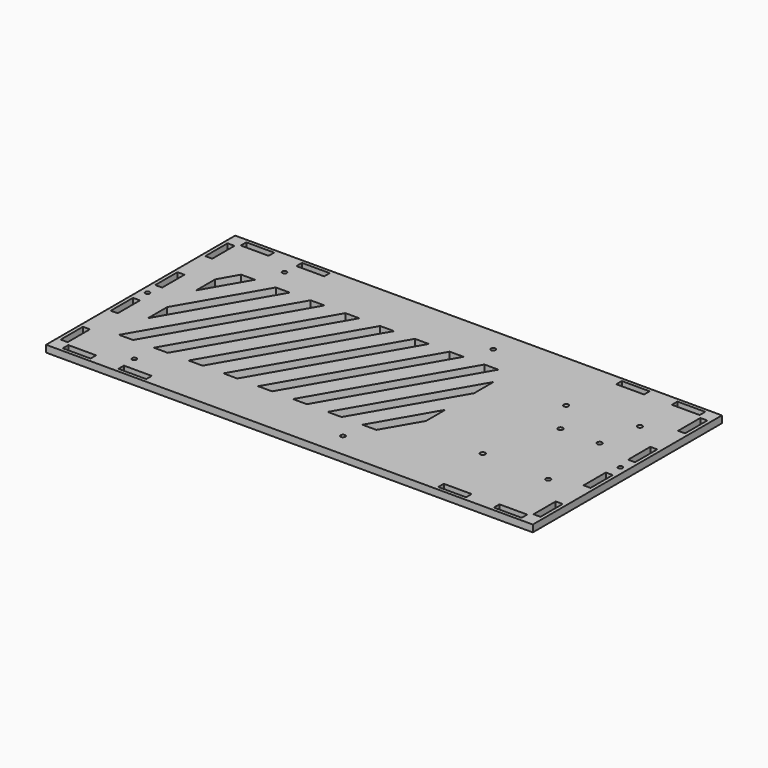
from build123d import *

# Parameters (mm, degrees)
F1_W     = 20
F1_H     = 5
F1_W_2   = 5
F1_H_2   = 20
F1_R     = 1.6
F1_R_2   = 1.75
F2_DEPTH = 5


with BuildPart() as f2:
    # F1 (on Top) → F2 (new body)
    with BuildSketch(Plane.XY):
        Polygon((0, 35), (0, 0), (350, 0), (350, 170), (0, 170), align=None)
        with Locations((20, 5)):
            Rectangle(F1_W, F1_H, mode=Mode.SUBTRACT)
        with Locations((5, 20)):
            Rectangle(F1_W_2, F1_H_2, mode=Mode.SUBTRACT)
        with Locations((60, 5)):
            Rectangle(F1_W, F1_H, mode=Mode.SUBTRACT)
        with Locations((49.5, 17.5)):
            Circle(F1_R, mode=Mode.SUBTRACT)
        with Locations((5, 65)):
            Rectangle(F1_W_2, F1_H_2, mode=Mode.SUBTRACT)
        with Locations((199.5, 17.5)):
            Circle(F1_R, mode=Mode.SUBTRACT)
        with Locations((290, 5)):
            Rectangle(F1_W, F1_H, mode=Mode.SUBTRACT)
        with Locations((330, 5)):
            Rectangle(F1_W, F1_H, mode=Mode.SUBTRACT)
        with Locations((345, 20)):
            Rectangle(F1_W_2, F1_H_2, mode=Mode.SUBTRACT)
        Polygon((209.5, 35), (199.5, 35), (224.5, 78.3012701892), (224.5, 60.9117498708), align=None, mode=Mode.SUBTRACT)
        Polygon((184.5, 35), (174.5, 35), (224.5, 121.6025403784), (224.5, 104.0979996554), align=None, mode=Mode.SUBTRACT)
        with Locations((274.1, 49.85)):
            Circle(F1_R_2, mode=Mode.SUBTRACT)
        with Locations((322.4, 48.45)):
            Circle(F1_R_2, mode=Mode.SUBTRACT)
        with Locations((345, 65)):
            Rectangle(F1_W_2, F1_H_2, mode=Mode.SUBTRACT)
        with Locations((5, 85)):
            Circle(F1_R, mode=Mode.SUBTRACT)
        with Locations((5, 105)):
            Rectangle(F1_W_2, F1_H_2, mode=Mode.SUBTRACT)
        Polygon((34.5, 35), (24.5, 35), (82.235026919, 135), (92.235026919, 135), align=None, mode=Mode.SUBTRACT)
        Polygon((59.5, 35), (49.5, 35), (107.235026919, 135), (117.235026919, 135), align=None, mode=Mode.SUBTRACT)
        Polygon((57.235026919, 135), (67.235026919, 135), (24.5, 60.9807621135), (24.5, 78.1862497847), align=None, mode=Mode.SUBTRACT)
        Polygon((32.235026919, 135), (42.235026919, 135), (24.5, 104.2820323028), (24.5, 121.3724995693), align=None, mode=Mode.SUBTRACT)
        Polygon((84.5, 35), (74.5, 35), (132.235026919, 135), (142.235026919, 135), align=None, mode=Mode.SUBTRACT)
        Polygon((109.5, 35), (99.5, 35), (157.235026919, 135), (167.235026919, 135), align=None, mode=Mode.SUBTRACT)
        Polygon((134.5, 35), (124.5, 35), (182.235026919, 135), (192.235026919, 135), align=None, mode=Mode.SUBTRACT)
        with Locations((5, 150)):
            Rectangle(F1_W_2, F1_H_2, mode=Mode.SUBTRACT)
        with Locations((20, 165)):
            Rectangle(F1_W, F1_H, mode=Mode.SUBTRACT)
        with Locations((49.5, 152.5)):
            Circle(F1_R, mode=Mode.SUBTRACT)
        with Locations((60, 165)):
            Rectangle(F1_W, F1_H, mode=Mode.SUBTRACT)
        Polygon((159.5, 35), (149.5, 35), (207.235026919, 135), (217.235026919, 135), align=None, mode=Mode.SUBTRACT)
        with Locations((289.3, 100.75)):
            Circle(F1_R_2, mode=Mode.SUBTRACT)
        with Locations((345, 85)):
            Circle(F1_R, mode=Mode.SUBTRACT)
        with Locations((317.5, 100.75)):
            Circle(F1_R_2, mode=Mode.SUBTRACT)
        with Locations((345, 105)):
            Rectangle(F1_W_2, F1_H_2, mode=Mode.SUBTRACT)
        with Locations((274.1, 124.75)):
            Circle(F1_R_2, mode=Mode.SUBTRACT)
        with Locations((199.5, 152.5)):
            Circle(F1_R, mode=Mode.SUBTRACT)
        with Locations((322.4, 130.75)):
            Circle(F1_R_2, mode=Mode.SUBTRACT)
        with Locations((290, 165)):
            Rectangle(F1_W, F1_H, mode=Mode.SUBTRACT)
        with Locations((345, 150)):
            Rectangle(F1_W_2, F1_H_2, mode=Mode.SUBTRACT)
        with Locations((330, 165)):
            Rectangle(F1_W, F1_H, mode=Mode.SUBTRACT)
    extrude(amount=F2_DEPTH)


solid = f2.part
